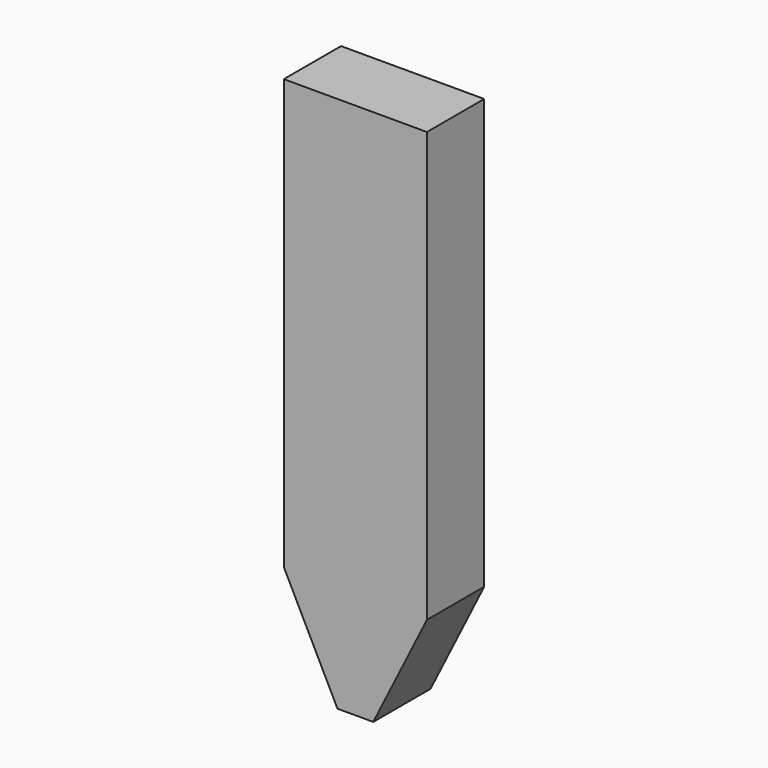
from build123d import *

# Parameters (mm, degrees)
BOX032_W           = 0.8
BOX032_H           = 0.4
BOX032_DEPTH       = 3
CHAMFER020_1_SIZE2 = 0.3
CHAMFER020_1_SIZE  = 0.6
CHAMFER020_2_SIZE2 = 0.3
CHAMFER020_2_SIZE  = 0.6


with BuildPart() as part:
    # Box032 → Box032 (new body)
    with BuildSketch(Plane(origin=(-5.4, -4, -3), x_dir=(1, 0, 0), z_dir=(0, 0, 1))):
        with Locations((0.4, 0.2)):
            Rectangle(BOX032_W, BOX032_H)
    extrude(amount=BOX032_DEPTH)

    # Chamfer020 1
    chamfer020_1_edges = [part.edges().sort_by_distance(p)[0] for p in [
        (-4.6, -3.8, -3),
    ]]
    chamfer020_1_side = part.faces().sort_by_distance((-4.6, -3.8, -1.5))[0]
    chamfer(chamfer020_1_edges, length=CHAMFER020_1_SIZE, length2=CHAMFER020_1_SIZE2, reference=chamfer020_1_side)

    # Chamfer020 2
    chamfer020_2_edges = [part.edges().sort_by_distance(p)[0] for p in [
        (-5.4, -3.8, -3),
    ]]
    chamfer020_2_side = part.faces().sort_by_distance((-5.4, -3.8, -1.5))[0]
    chamfer(chamfer020_2_edges, length=CHAMFER020_2_SIZE, length2=CHAMFER020_2_SIZE2, reference=chamfer020_2_side)


solid = part.part
